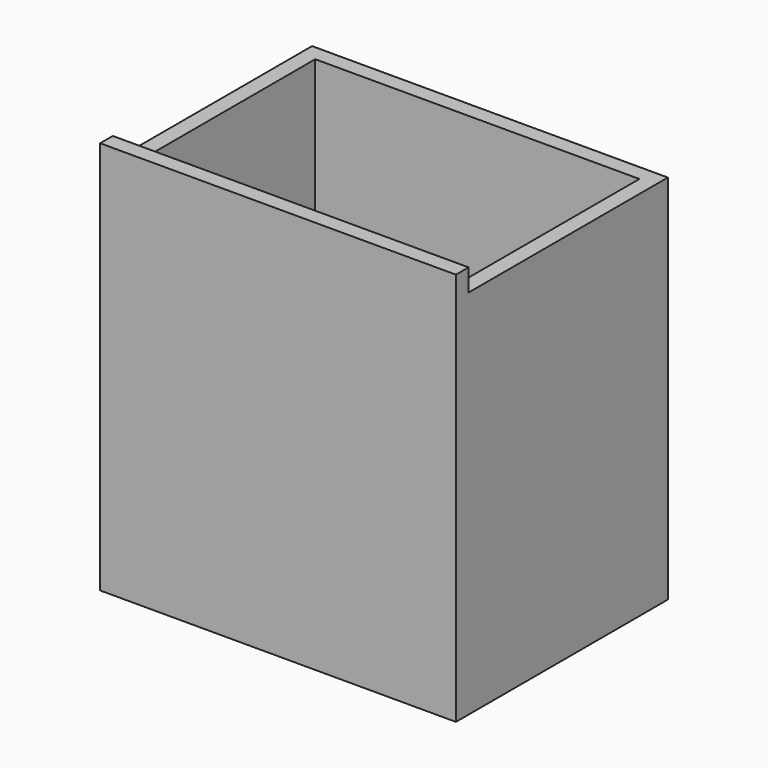
from build123d import *

# Parameters (mm, degrees)
F0_W     = 410
F0_H     = 20
F0_W_2   = 20
F1_DEPTH = 498
F0_H_2   = 295
F2_DEPTH = 470
F3_DEPTH = 25


with BuildPart() as f1:
    # F0 (on Top) → F1 (new body)
    with BuildSketch(Plane.XY):
        with Locations((0, -157.5)):
            Rectangle(F0_W, F0_H)
        with Locations((-215, -157.5)):
            Rectangle(F0_W_2, F0_H)
        with Locations((215, -157.5)):
            Rectangle(F0_W_2, F0_H)
    extrude(amount=F1_DEPTH)

    # F0 (on Top) → F2 (join)
    with BuildSketch(Plane.XY):
        with Locations((-215, 0)):
            Rectangle(F0_W_2, F0_H_2)
        with Locations((-215, 157.5)):
            Rectangle(F0_W_2, F0_H)
        with Locations((0, 157.5)):
            Rectangle(F0_W, F0_H)
        with Locations((215, 157.5)):
            Rectangle(F0_W_2, F0_H)
        with Locations((215, 0)):
            Rectangle(F0_W_2, F0_H_2)
    extrude(amount=F2_DEPTH)

    # F0 (on Top) → F3 (join)
    with BuildSketch(Plane.XY):
        with Locations((215, -157.5)):
            Rectangle(F0_W_2, F0_H)
        with Locations((0, -157.5)):
            Rectangle(F0_W, F0_H)
        with Locations((215, 0)):
            Rectangle(F0_W_2, F0_H_2)
        with Locations((-215, -157.5)):
            Rectangle(F0_W_2, F0_H)
        with Locations((215, 157.5)):
            Rectangle(F0_W_2, F0_H)
        with Locations((-215, 0)):
            Rectangle(F0_W_2, F0_H_2)
        with Locations((0, 157.5)):
            Rectangle(F0_W, F0_H)
        with Locations((-215, 157.5)):
            Rectangle(F0_W_2, F0_H)
        Rectangle(F0_W, F0_H_2)
    extrude(amount=F3_DEPTH)


solid = f1.part
